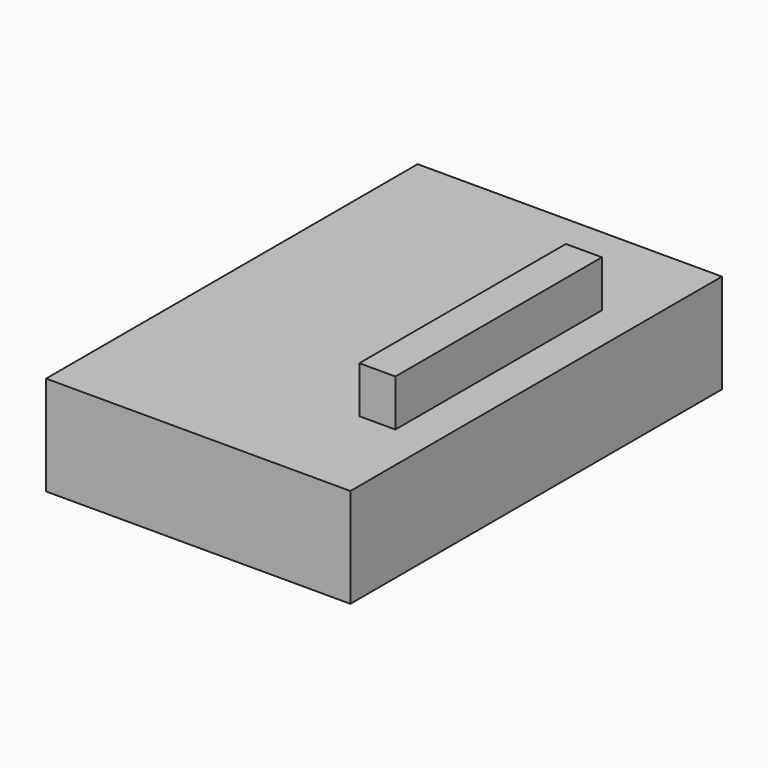
from build123d import *

# Parameters (mm, degrees)
F0_W     = 77.797736
F0_H     = 118.724528
F2_DEPTH = 25.4
F1_W     = 9.217743
F1_H     = 65.999032
F3_DEPTH = 37.338


with BuildPart() as f2:
    # F0 (on Top) → F2 (new body)
    with BuildSketch(Plane.XY):
        Rectangle(F0_W, F0_H)
    extrude(amount=F2_DEPTH)

    # F1 (on face) → F3 (join)
    with BuildSketch(Plane.XY):
        with Locations((24.703549, 0)):
            Rectangle(F1_W, F1_H)
    extrude(amount=F3_DEPTH)


solid = f2.part
